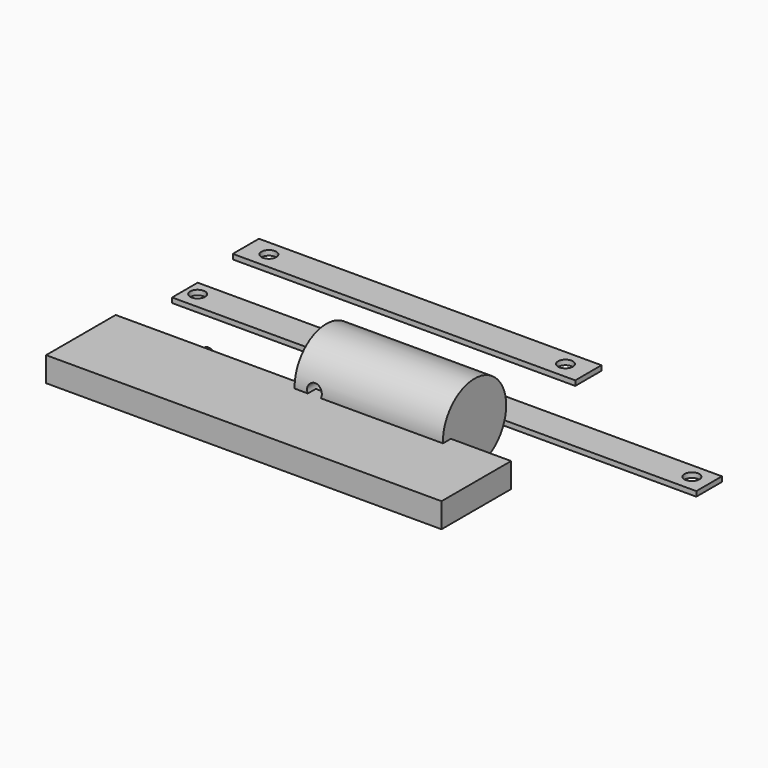
from build123d import *

# Parameters (mm, degrees)
F0_R      = 40
F1_DEPTH  = 150
F2_R      = 7.5
F3_DEPTH  = 82.347489
F4_W      = 530.280009
F4_H      = 32.396527
F4_R      = 7.5
F5_DEPTH  = 5
F6_R      = 7.5
F7_DEPTH  = 25
F8_W      = 400
F8_H      = 88
F9_DEPTH  = 25
F10_W     = 346.440271
F10_H     = 33.090777
F10_R     = 7.5
F11_DEPTH = 5


with BuildPart() as f1:
    # F0 (on Right) → F1 (new body)
    with BuildSketch(Plane.YZ):
        with Locations((-42.346489, 26.451953)):
            Circle(F0_R)
    extrude(amount=F1_DEPTH)

    # F2 (on Front) → F3 (cut, through all)
    with BuildSketch(Plane.XZ):
        with Locations((20, 28.46138)):
            Circle(F2_R)
    extrude(amount=F3_DEPTH, mode=Mode.SUBTRACT)


with BuildPart() as f5:
    # F4 (on Top) → F5 (new body)
    with BuildSketch(Plane.XY):
        with Locations((68.127088, 25.185617)):
            Rectangle(F4_W, F4_H)
        with Locations((-184.806153, 26.072554)):
            Circle(F4_R, mode=Mode.SUBTRACT)
        with Locations((-54.806153, 26.072554)):
            Circle(F4_R, mode=Mode.SUBTRACT)
        with Locations((315.193847, 26.072554)):
            Circle(F4_R, mode=Mode.SUBTRACT)
    extrude(amount=F5_DEPTH)


with BuildPart() as f7:
    # F6 (on Front) → F7 (new body)
    with BuildSketch(Plane.XZ):
        with Locations((-152.859062, -29.058892)):
            Circle(F6_R)
    extrude(amount=F7_DEPTH)


with BuildPart() as f9:
    # F8 (on Top) → F9 (new body)
    with BuildSketch(Plane.XY):
        with Locations((10.918853, -116.234779)):
            Rectangle(F8_W, F8_H)
    extrude(amount=F9_DEPTH)


with BuildPart() as f11:
    # F10 (on Top) → F11 (new body)
    with BuildSketch(Plane.XY):
        with Locations((-32.96239, 113.747965)):
            Rectangle(F10_W, F10_H)
        with Locations((-183.278471, 114.230417)):
            Circle(F10_R, mode=Mode.SUBTRACT)
        with Locations((116.721529, 114.230417)):
            Circle(F10_R, mode=Mode.SUBTRACT)
    extrude(amount=F11_DEPTH)


solid = Compound([f1.part, f5.part, f7.part, f9.part, f11.part])
